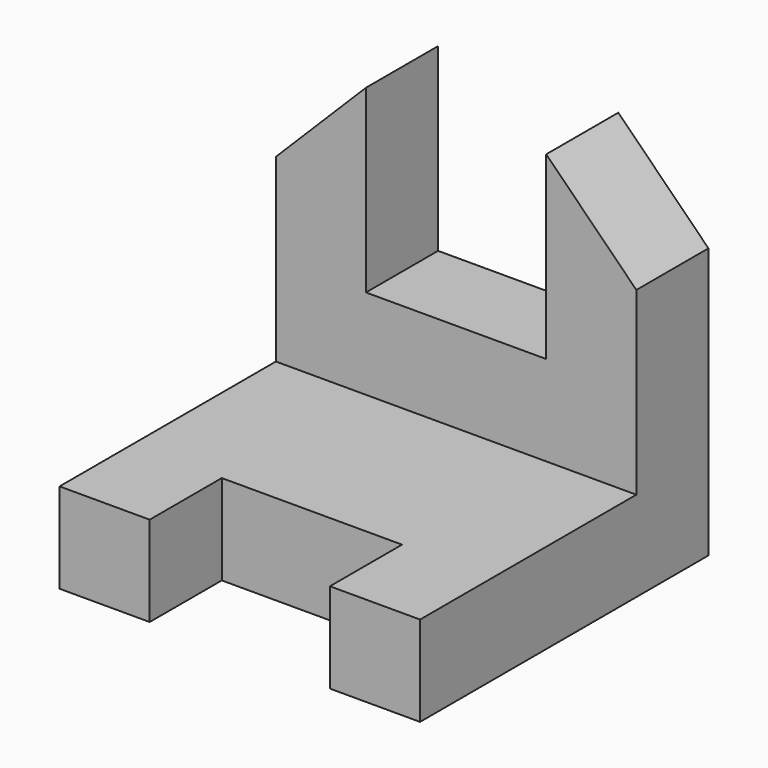
from build123d import *

# Parameters (mm, degrees)
F0_W     = 101.6
F0_H     = 101.6
F1_DEPTH = 101.6
F2_W     = 76.2
F2_H     = 76.2
F3_DEPTH = 160.782
F6_DEPTH = 60.198
F8_DEPTH = 66.802
F4_W     = 50.8
F4_H     = 25.4
F9_DEPTH = 78.486


with BuildPart() as f1:
    # F0 (on Right) → F1 (new body)
    with BuildSketch(Plane.YZ):
        with Locations((-50.8, 50.8)):
            Rectangle(F0_W, F0_H)
    extrude(amount=F1_DEPTH)

    # F2 (on face) → F3 (cut)
    with BuildSketch(Plane.YZ.offset(101.6)):
        with Locations((-63.5, 63.5)):
            Rectangle(F2_W, F2_H)
    extrude(amount=-F3_DEPTH, mode=Mode.SUBTRACT)

    # F5 (on face) → F6 (cut)
    with BuildSketch(Plane.XZ.offset(25.4)):
        Polygon((76.2, 101.6), (25.4, 101.6), (25.4, 76.2), (25.4, 50.8), (76.2, 50.8), (76.2, 76.2), align=None)
    extrude(amount=-F6_DEPTH, mode=Mode.SUBTRACT)

    # F7 (on face) → F8 (cut)
    with BuildSketch(Plane.XZ.offset(25.4)):
        Polygon((76.2, 101.6), (101.6, 76.2), (101.6, 101.6), align=None)
        Polygon((0, 76.2), (25.4, 101.6), (0, 101.6), align=None)
    extrude(amount=-F8_DEPTH, mode=Mode.SUBTRACT)

    # F4 (on face) → F9 (cut)
    with BuildSketch(Plane.XY.offset(25.4)):
        with Locations((50.8, -88.9)):
            Rectangle(F4_W, F4_H)
    extrude(amount=-F9_DEPTH, mode=Mode.SUBTRACT)


solid = f1.part
